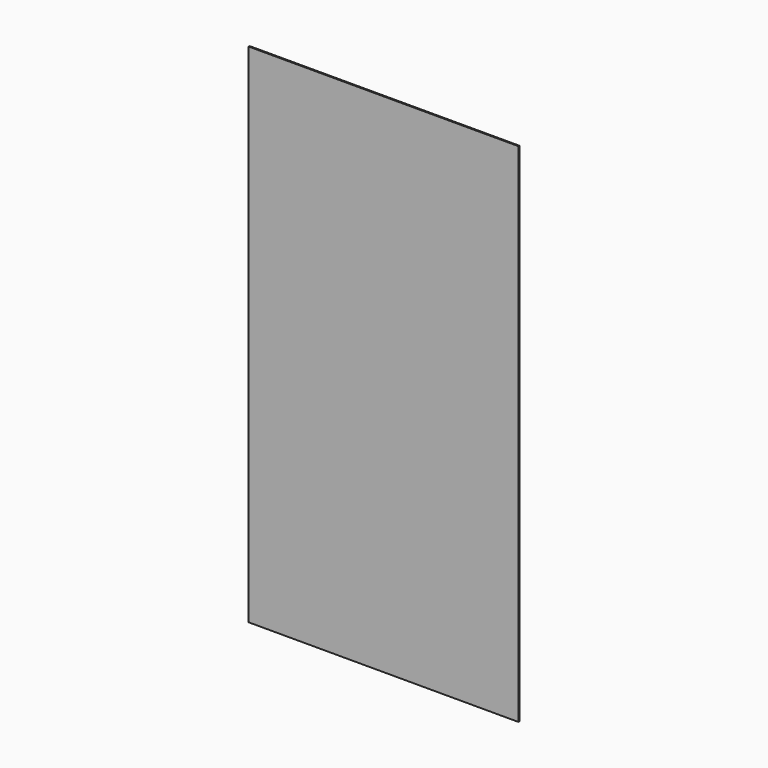
from build123d import *

# Parameters (mm, degrees)
F0_W     = 958
F0_H     = 1798
F1_DEPTH = 2
F2_SIZE  = 1


with BuildPart() as f1:
    # F0 (on Front) → F1 (new body, symmetric)
    with BuildSketch(Plane.XZ):
        Rectangle(F0_W, F0_H)
    extrude(amount=F1_DEPTH, both=True)

    # F2
    f2_edges = [f1.edges().sort_by_distance(p)[0] for p in [
        (479, 0, 899),
        (-479, 0, 899),
        (-479, 0, -899),
        (479, 0, -899),
    ]]
    chamfer(f2_edges, length=F2_SIZE)


solid = f1.part
